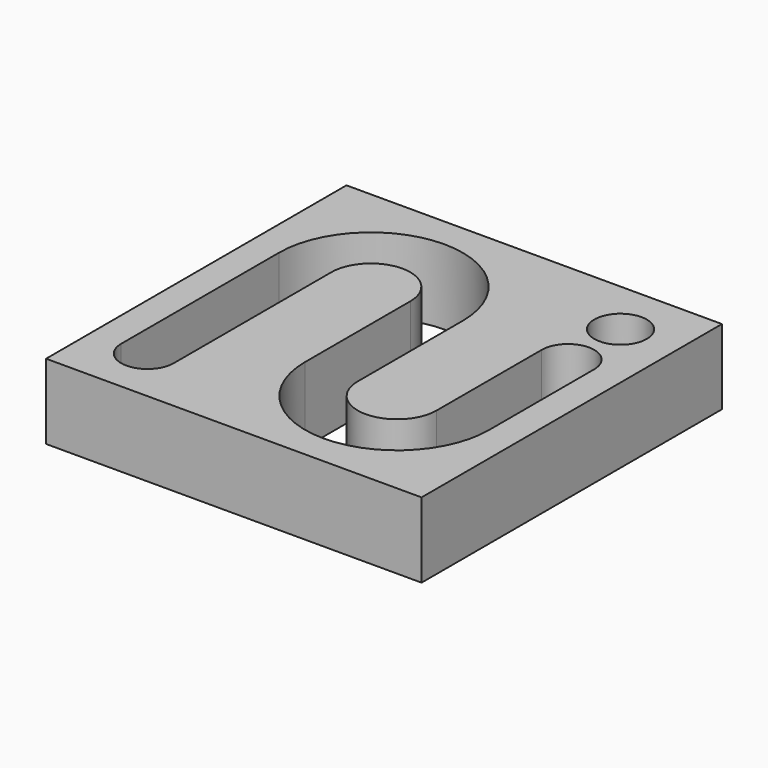
from build123d import *

# Parameters (mm, degrees)
F0_W     = 100
F0_H     = 100
F0_R     = 7
F1_DEPTH = 20


with BuildPart() as f1:
    # F0 (on Top) → F1 (new body)
    with BuildSketch(Plane.XY):
        Rectangle(F0_W, F0_H)
        with BuildLine():
            Line((-28, -17.5), (-28, -35))
            ThreePointArc((-28, -35), (-35, -42), (-42, -35))
            Line((-42, -35), (-42, -17.5))
            Line((-42, -17.5), (-42, 17.5))
            ThreePointArc((-42, 17.5), (-17.5, 42), (7, 17.5))
            Line((7, 17.5), (7, -17.5))
            ThreePointArc((7, -17.5), (17.5, -28), (28, -17.5))
            Line((28, -17.5), (28, 17.5))
            ThreePointArc((28, 17.5), (35, 24.5), (42, 17.5))
            Line((42, 17.5), (42, -17.5))
            ThreePointArc((42, -17.5), (17.5, -42), (-7, -17.5))
            Line((-7, -17.5), (-7, 17.5))
            ThreePointArc((-7, 17.5), (-17.5, 28), (-28, 17.5))
            Line((-28, 17.5), (-28, -17.5))
        make_face(mode=Mode.SUBTRACT)
        with Locations((35, 35)):
            Circle(F0_R, mode=Mode.SUBTRACT)
    extrude(amount=F1_DEPTH)


solid = f1.part
